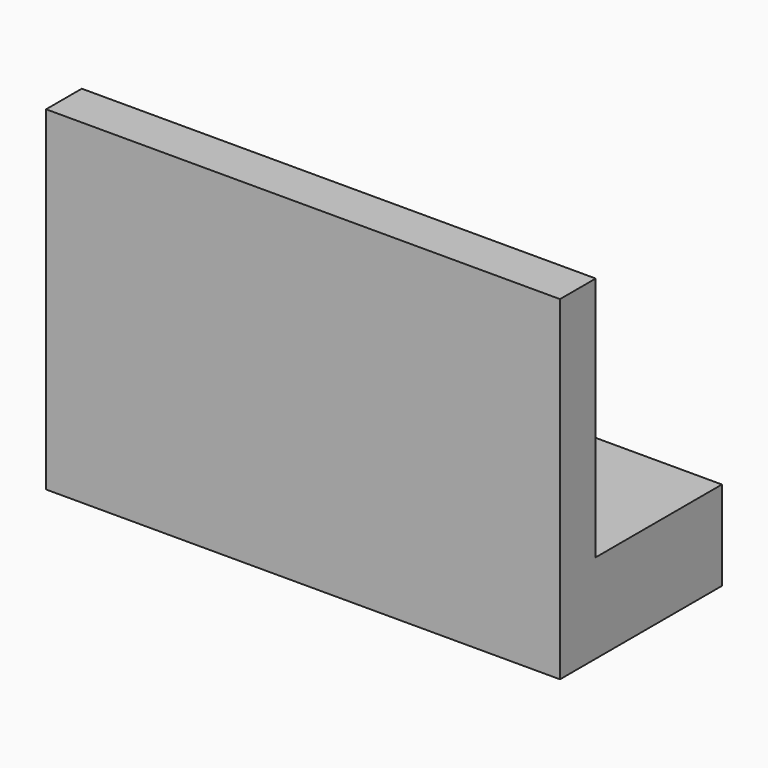
from build123d import *

# Parameters (mm, degrees)
F0_R     = 3
F0_R_2   = 1.245
F1_DEPTH = 1.5
F2_DEPTH = 4
F3_W     = 23.03
F3_H     = 11
F3_H_2   = 4
F4_DEPTH = 2


with BuildPart() as f1:
    # F0 (on Top) → F1 (new body)
    with BuildSketch(Plane.XY):
        Circle(F0_R)
        Circle(F0_R_2, mode=Mode.SUBTRACT)
    extrude(amount=F1_DEPTH)

    # F0 (on Top) → F2 (join)
    with BuildSketch(Plane.XY):
        with BuildLine():
            ThreePointArc((0, -3.535), (2.499622, -2.499622), (3.535, 0))
            ThreePointArc((3.535, 0), (2.499622, 2.499622), (0, 3.535))
            ThreePointArc((0, 3.535), (-3.535, 0), (0, -3.535))
        make_face()
        Circle(F0_R, mode=Mode.SUBTRACT)
        with BuildLine():
            ThreePointArc((0, -3.535), (-3.535, 0), (0, 3.535))
            Line((0, 3.535), (-11.515, 3.535))
            Line((-11.515, 3.535), (-11.515, -3.535))
            Line((-11.515, -3.535), (0, -3.535))
        make_face()
        with BuildLine():
            ThreePointArc((0, 3.535), (2.499622, 2.499622), (3.535, 0))
            ThreePointArc((3.535, 0), (2.499622, -2.499622), (0, -3.535))
            Line((0, -3.535), (11.515, -3.535))
            Line((11.515, -3.535), (11.515, 3.535))
            Line((11.515, 3.535), (0, 3.535))
        make_face()
    extrude(amount=F2_DEPTH)

    # F3 (on face) → F4 (join)
    with BuildSketch(Plane.XZ.offset(3.535)):
        with Locations((0, 9.5)):
            Rectangle(F3_W, F3_H)
        with Locations((0, 2)):
            Rectangle(F3_W, F3_H_2)
    extrude(amount=F4_DEPTH)


solid = f1.part
